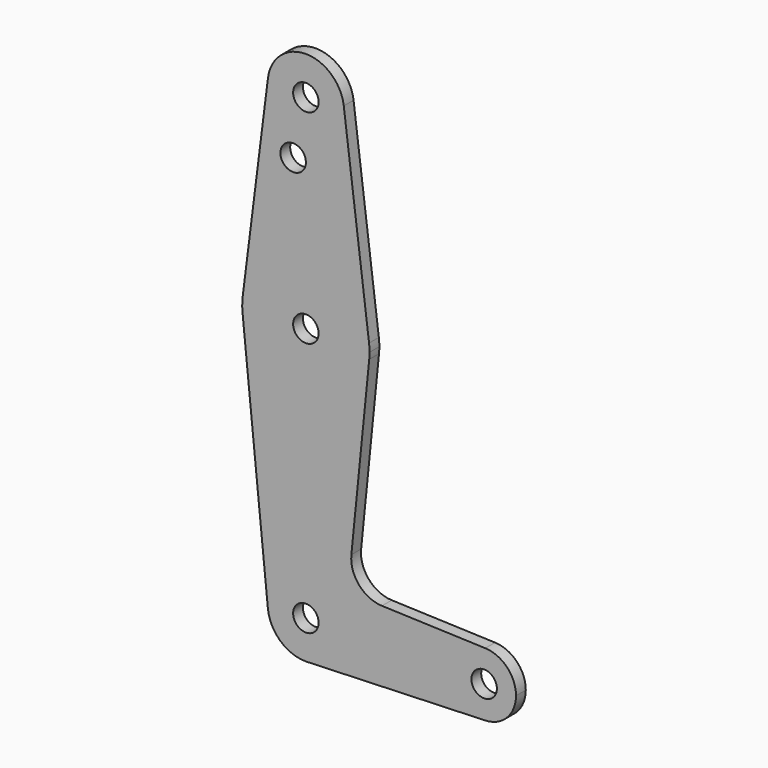
from build123d import *

# Parameters (mm, degrees)
F0_R     = 3.175
F1_DEPTH = 3.048


with BuildPart() as f1:
    # F0 (on Front) → F1 (new body)
    with BuildSketch(Plane.XZ):
        with BuildLine():
            ThreePointArc((0.677344, -73.000886), (6.970557, -69.991299), (9.525, -63.5))
            ThreePointArc((9.525, -63.5), (-0.476848, -53.986944), (-9.477255, -64.4525))
            ThreePointArc((-9.477255, -64.4525), (-6.389564, -70.563929), (0, -73.025))
            Line((0, -73.025), (0.677344, -73.000886))
        make_face()
        with Locations((0, -63.5)):
            Circle(F0_R, mode=Mode.SUBTRACT)
        with BuildLine():
            ThreePointArc((-9.477255, -64.4525), (-0.476848, -53.986944), (9.525, -63.5))
            ThreePointArc((9.525, -63.5), (6.970557, -69.991299), (0.677344, -73.000886))
            Line((0.677344, -73.000886), (44.732405, -71.432475))
            ThreePointArc((44.732405, -71.432475), (36.5125, -63.499461), (44.733482, -55.567564))
            Line((44.733482, -55.567564), (18.9676, -54.646766))
            ThreePointArc((18.9676, -54.646766), (13.2612, -51.928641), (11.341187, -45.906618))
            Line((11.341187, -45.906618), (15.795426, -1.5875))
            ThreePointArc((15.795426, -1.5875), (0, -15.875), (-15.795426, -1.5875))
            Line((-15.795426, -1.5875), (-9.477255, -64.4525))
        make_face()
        with BuildLine():
            ThreePointArc((0, -73.025), (0.338886, -73.01897), (0.677344, -73.000886))
            Line((0.677344, -73.000886), (0, -73.025))
        make_face()
        with BuildLine():
            ThreePointArc((-15.750488, 1.984375), (-15.873744, 0.199705), (-15.795426, -1.5875))
            ThreePointArc((-15.795426, -1.5875), (0, -15.875), (15.795426, -1.5875))
            ThreePointArc((15.795426, -1.5875), (15.855094, -0.794747), (15.875, 0))
            ThreePointArc((15.875, 0), (15.843841, 0.994139), (15.750488, 1.984375))
            ThreePointArc((15.750488, 1.984375), (0, 15.875), (-15.750488, 1.984375))
        make_face()
        Circle(F0_R, mode=Mode.SUBTRACT)
        with BuildLine():
            ThreePointArc((44.733482, -55.567564), (36.5125, -63.499461), (44.732405, -71.432475))
            ThreePointArc((44.732405, -71.432475), (50.161633, -69.01191), (52.3875, -63.5))
            ThreePointArc((52.3875, -63.5), (50.162007, -57.988477), (44.733482, -55.567564))
        make_face()
        with Locations((44.45, -63.5)):
            Circle(F0_R, mode=Mode.SUBTRACT)
        with BuildLine():
            Line((-9.450293, 51.990625), (-15.750488, 1.984375))
            ThreePointArc((-15.750488, 1.984375), (0, 15.875), (15.750488, 1.984375))
            Line((15.750488, 1.984375), (9.450293, 51.990625))
            ThreePointArc((9.450293, 51.990625), (9.506305, 51.396483), (9.525, 50.8))
            ThreePointArc((9.525, 50.8), (-0.596483, 41.293695), (-9.450293, 51.990625))
        make_face()
        with Locations((-3.175, 36.5252)):
            Circle(F0_R, mode=Mode.SUBTRACT)
        with BuildLine():
            ThreePointArc((9.450293, 51.990625), (0, 60.325), (-9.450293, 51.990625))
            ThreePointArc((-9.450293, 51.990625), (-0.596483, 41.293695), (9.525, 50.8))
            ThreePointArc((9.525, 50.8), (9.506305, 51.396483), (9.450293, 51.990625))
        make_face()
        with Locations((0, 50.8)):
            Circle(F0_R, mode=Mode.SUBTRACT)
    extrude(amount=F1_DEPTH)


solid = f1.part
